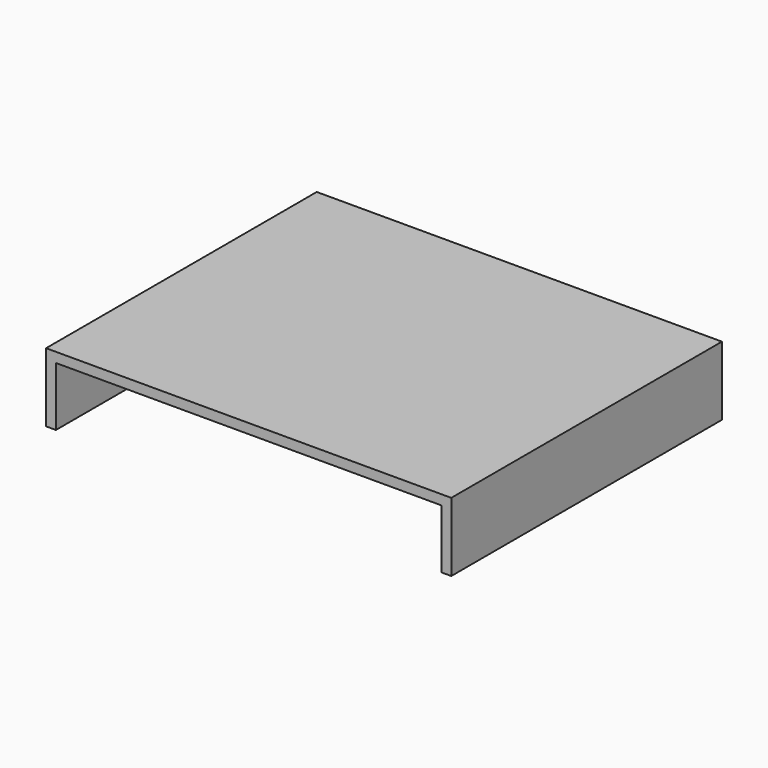
from build123d import *

# Parameters (mm, degrees)
F0_W     = 20.6
F0_H     = 17.2
F1_DEPTH = 0.5
F2_W     = 0.5
F2_H     = 17.2
F3_DEPTH = 3


with BuildPart() as f1:
    # F0 (on Top) → F1 (new body)
    with BuildSketch(Plane.XY):
        with Locations((10.3, 8.6)):
            Rectangle(F0_W, F0_H)
    extrude(amount=F1_DEPTH)

    # F2 (on face) → F3 (join)
    with BuildSketch(Plane(origin=(0, 0, 0), x_dir=(1, 0, 0), z_dir=(0, 0, -1))):
        with Locations((0.25, -8.6)):
            Rectangle(F2_W, F2_H)
        with Locations((20.35, -8.6)):
            Rectangle(F2_W, F2_H)
    extrude(amount=F3_DEPTH)


solid = f1.part
